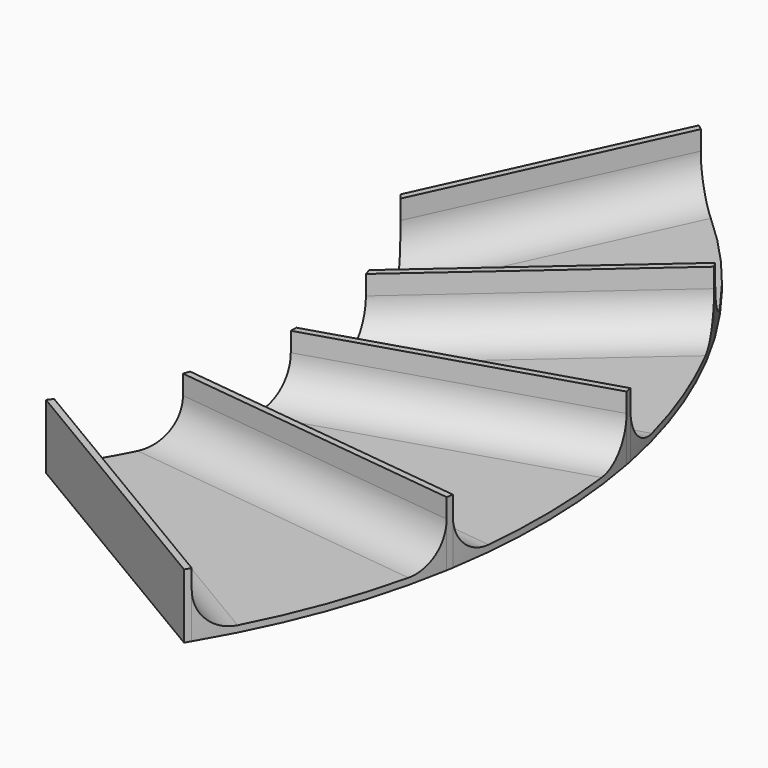
from build123d import *

# Parameters (mm, degrees)
F1_DEPTH = 50
F2_DEPTH = 45
F3_R     = 30


with BuildPart() as f1:
    # F0 (on Top) → F1 (new body)
    with BuildSketch(Plane.XY):
        with BuildLine():
            ThreePointArc((194.916758, -97.186199), (194.096086, -99.609017), (193.25323, -102.024207))
            Line((193.25323, -102.024207), (419.168146, -128.763))
            ThreePointArc((419.168146, -128.763), (419.586918, -126.295419), (419.993217, -123.825754))
            Line((419.993217, -123.825754), (194.916758, -97.186199))
        make_face()
        with BuildLine():
            Line((419.168146, -128.763), (193.25323, -102.024207))
            ThreePointArc((193.25323, -102.024207), (176.040994, -140.915536), (153.116385, -176.738139))
            Line((153.116385, -176.738139), (356.739258, -297.881018))
            ThreePointArc((356.739258, -297.881018), (395.712182, -216.186004), (419.168146, -128.763))
        make_face()
        with BuildLine():
            Line((356.739258, -297.881018), (153.116385, -176.738139))
            ThreePointArc((153.116385, -176.738139), (151.592629, -178.742138), (150.050848, -180.732305))
            Line((150.050848, -180.732305), (354.182793, -302.17805))
            Line((354.182793, -302.17805), (356.739258, -297.881018))
        make_face()
        with BuildLine():
            ThreePointArc((209.125815, -17.369315), (204.936498, -57.796725), (194.916758, -97.186199))
            Line((194.916758, -97.186199), (419.993217, -123.825754))
            ThreePointArc((419.993217, -123.825754), (426.318532, -38.112086), (417.732158, 47.404677))
            Line((417.732158, 47.404677), (209.125815, -17.369315))
        make_face()
        with BuildLine():
            ThreePointArc((209.235921, -12.099633), (209.193315, -14.734734), (209.125815, -17.369315))
            Line((209.125815, -17.369315), (417.732158, 47.404677))
            ThreePointArc((417.732158, 47.404677), (417.258484, 49.874616), (416.772274, 52.342118))
            Line((416.772274, 52.342118), (209.235921, -12.099633))
        make_face()
        with BuildLine():
            ThreePointArc((198.100487, 69.182539), (206.672827, 28.953078), (209.235921, -12.099633))
            Line((209.235921, -12.099633), (416.772274, 52.342118))
            ThreePointArc((416.772274, 52.342118), (393.439703, 132.916412), (356.845379, 208.398073))
            Line((356.845379, 208.398073), (198.100487, 69.182539))
        make_face()
        with BuildLine():
            ThreePointArc((196.511281, 74.439195), (197.31882, 71.814778), (198.100487, 69.182539))
            Line((198.100487, 69.182539), (356.845379, 208.398073))
            ThreePointArc((356.845379, 208.398073), (355.541948, 210.578631), (354.227351, 212.752477))
            Line((354.227351, 212.752477), (196.511281, 74.439195))
        make_face()
        with BuildLine():
            ThreePointArc((152.708019, 159.463464), (178.280983, 118.842747), (196.511281, 74.439195))
            Line((196.511281, 74.439195), (354.227351, 212.752477))
            ThreePointArc((354.227351, 212.752477), (301.918092, 283.669214), (237.870183, 344.194478))
            Line((237.870183, 344.194478), (152.708019, 159.463464))
        make_face()
        with BuildLine():
            ThreePointArc((149.258975, 163.924782), (150.994771, 161.702839), (152.708019, 159.463464))
            Line((152.708019, 159.463464), (237.870183, 344.194478))
            Line((237.870183, 344.194478), (233.833063, 347.380159))
            Line((233.833063, 347.380159), (149.258975, 163.924782))
        make_face()
    extrude(amount=-F1_DEPTH)

    # F0 (on Top) → F2 (cut)
    with BuildSketch(Plane.XY):
        with BuildLine():
            Line((419.168146, -128.763), (193.25323, -102.024207))
            ThreePointArc((193.25323, -102.024207), (176.040994, -140.915536), (153.116385, -176.738139))
            Line((153.116385, -176.738139), (356.739258, -297.881018))
            ThreePointArc((356.739258, -297.881018), (395.712182, -216.186004), (419.168146, -128.763))
        make_face()
        with BuildLine():
            ThreePointArc((209.125815, -17.369315), (204.936498, -57.796725), (194.916758, -97.186199))
            Line((194.916758, -97.186199), (419.993217, -123.825754))
            ThreePointArc((419.993217, -123.825754), (426.318532, -38.112086), (417.732158, 47.404677))
            Line((417.732158, 47.404677), (209.125815, -17.369315))
        make_face()
        with BuildLine():
            ThreePointArc((198.100487, 69.182539), (206.672827, 28.953078), (209.235921, -12.099633))
            Line((209.235921, -12.099633), (416.772274, 52.342118))
            ThreePointArc((416.772274, 52.342118), (393.439703, 132.916412), (356.845379, 208.398073))
            Line((356.845379, 208.398073), (198.100487, 69.182539))
        make_face()
        with BuildLine():
            ThreePointArc((152.708019, 159.463464), (178.280983, 118.842747), (196.511281, 74.439195))
            Line((196.511281, 74.439195), (354.227351, 212.752477))
            ThreePointArc((354.227351, 212.752477), (301.918092, 283.669214), (237.870183, 344.194478))
            Line((237.870183, 344.194478), (152.708019, 159.463464))
        make_face()
    extrude(amount=-F2_DEPTH, mode=Mode.SUBTRACT)

    # F3
    f3_edges = [f1.edges().sort_by_distance(p)[0] for p in [
        (195.289101, 251.828971, -45),
        (275.369316, 143.595836, -45),
        (313.004098, 20.121242, -45),
        (307.454988, -110.505976, -45),
        (254.927822, -237.309578, -45),
        (277.472933, 138.790306, -45),
        (313.428987, 15.017681, -45),
        (306.210688, -115.393603, -45),
    ]]
    fillet(f3_edges, radius=F3_R)


solid = f1.part
